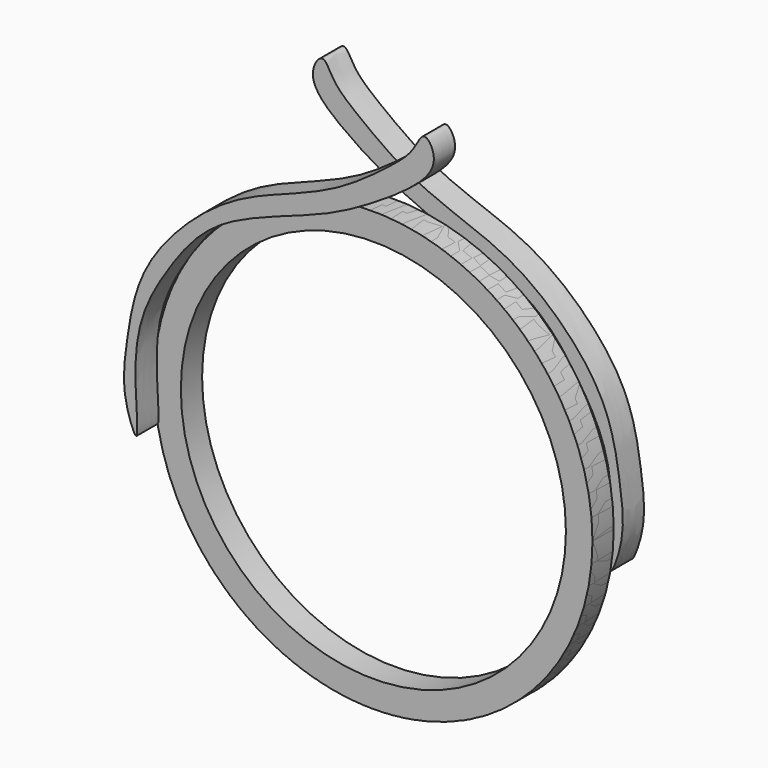
from build123d import *

# Parameters (mm, degrees)
F0_R     = 8.25
F0_R_2   = 7.25
F1_DEPTH = 0.5
F3_DEPTH = 1


with BuildPart() as f1:
    # F0 (on Front) → F1 (new body, symmetric)
    with BuildSketch(Plane.XZ):
        Circle(F0_R)
        Circle(F0_R_2, mode=Mode.SUBTRACT)
    extrude(amount=F1_DEPTH, both=True)

    # F2 (on face) → F3 (join)
    with BuildSketch(Plane.XZ.offset(0.5)):
        with BuildLine():
            add(Edge.make_bspline(
                [(-8.1246639624, -1.4325974658), (-8.0012365538, -1.3805387248), (-8.4929602934, 1.8834769724), (-7.0032404904, 4.4704693253), (-5.1843330358, 6.9146075829), (-1.2581337885, 8.0125426978), (0.7071460185, 9.1385561851), (1.8609905179, 9.8728615322), (3.4294898661, 11.126140564), (2.6985760795, 12.339998745), (2.333005471, 11.3567057944), (1.3606340209, 10.5591027439), (-0.4603020541, 9.1928631216), (-2.6566659062, 8.3641644666), (-5.0880353086, 7.4383157194), (-8.0459457202, 4.5298361917), (-8.483780116, 1.6221730046), (-8.7164555468, -0.135628166), (-8.2026302166, -1.4654817747), (-8.1246639624, -1.4325974658)],
                knots=[0, 0, 0, 0, 0.067794066, 0.1406814205, 0.2092817553, 0.2896978164, 0.3495949802, 0.3977586326, 0.4515563586, 0.4871596847, 0.5196863344, 0.5657986833, 0.6262352494, 0.6876157515, 0.7526430807, 0.8329857117, 0.9007785001, 0.9571760483, 1, 1, 1, 1], degree=3))
        make_face()
    extrude(amount=F3_DEPTH)


with BuildPart() as f4_1:
    # F4: instance of F1
    add(f1.part.mirror(Plane.YZ))


with BuildPart() as f5_1:
    # F5: instance of F4_1
    add(f4_1.part.mirror(Plane.XZ))


solid = Compound([f1.part, f5_1.part])
